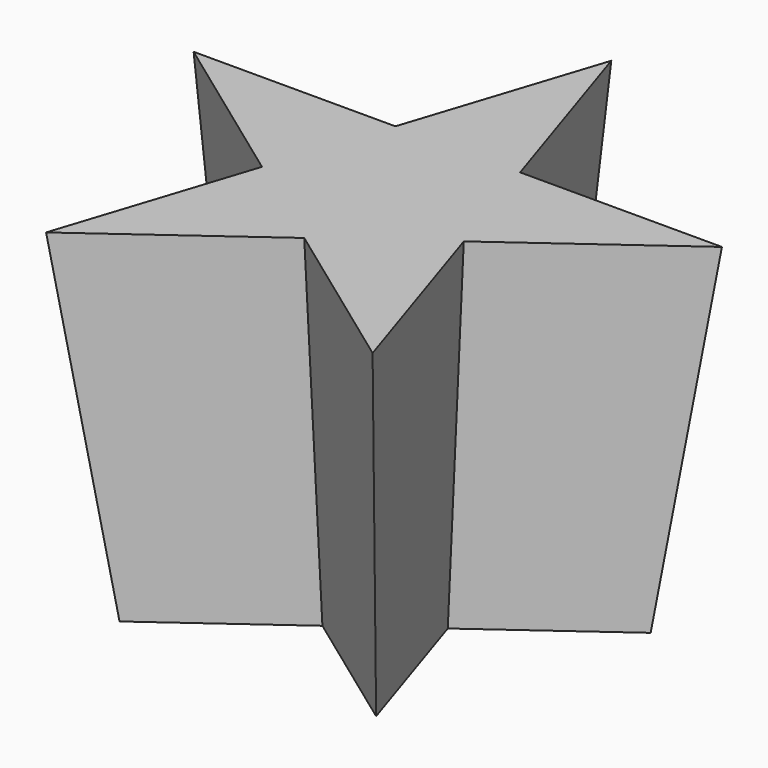
from build123d import *

# Parameters (mm, degrees)
F1_DEPTH = 100
F1_TAPER = -3


with BuildPart() as f1:
    # F0 (on Top) → F1 (new body)
    with BuildSketch(Plane.XY):
        Polygon((13.9748403187, 19.2347175561), (0, 62.2448535397), (0, 19.2347175561), align=None)
        Polygon((0, 19.2347175561), (0, 62.2448535397), (-13.9748403187, 19.2347175561), align=None)
        Polygon((13.9748403187, 19.2347175561), (0, 19.2347175561), (-13.9748403187, 19.2347175561), (-22.611766623, -7.3470083424), (0, -23.7754184274), (22.611766623, -7.3470083424), align=None)
        Polygon((59.1983735647, 19.2347175561), (13.9748403187, 19.2347175561), (22.611766623, -7.3470083424), align=None)
        Polygon((-22.611766623, -7.3470083424), (-13.9748403187, 19.2347175561), (-59.1983735647, 19.2347175561), align=None)
        Polygon((36.5866069417, -50.357144326), (22.611766623, -7.3470083424), (0, -23.7754184274), align=None)
        Polygon((0, -23.7754184274), (-22.611766623, -7.3470083424), (-36.5866069417, -50.357144326), align=None)
    extrude(amount=F1_DEPTH, taper=F1_TAPER)


solid = f1.part
